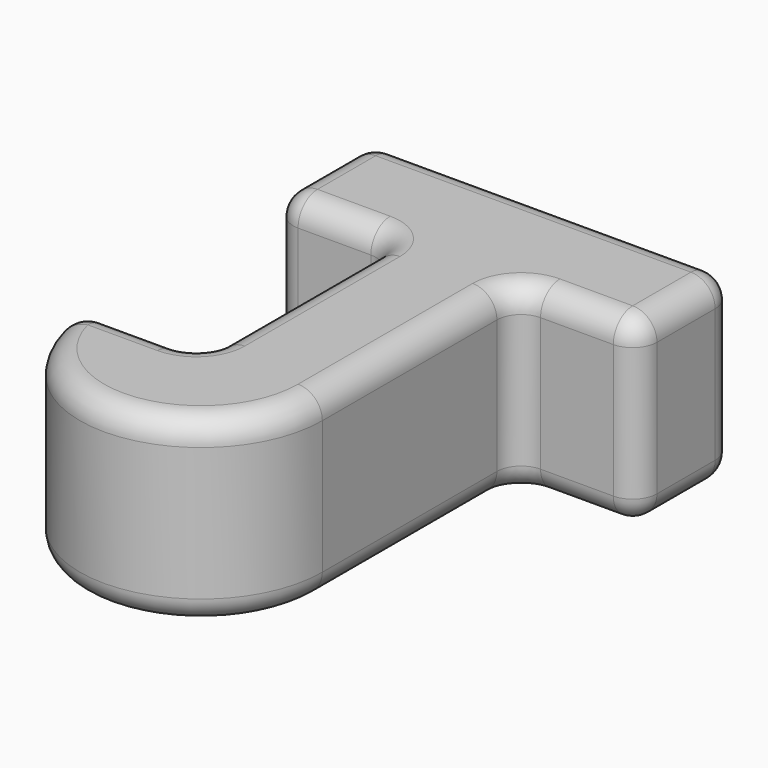
from build123d import *

# Parameters (mm, degrees)
F1_DEPTH = 15
F2_R     = 2


with BuildPart() as f1:
    # F0 (on Top) → F1 (new body)
    with BuildSketch(Plane.XY):
        with BuildLine():
            Line((0, 49.473686), (-30, 49.473686))
            Line((-30, 49.473686), (-30, 39.473686))
            Line((-30, 39.473686), (-20, 39.473686))
            Line((-20, 39.473686), (-20, 19.473686))
            Line((-20, 19.473686), (-30, 19.473686))
            ThreePointArc((-30, 19.473686), (-20, 9.473686), (-10, 19.473686))
            Line((-10, 19.473686), (-10, 39.473686))
            Line((-10, 39.473686), (0, 39.473686))
            Line((0, 39.473686), (0, 49.473686))
        make_face()
    extrude(amount=F1_DEPTH)

    # F2
    f2_edges = [f1.edges().sort_by_distance(p)[0] for p in [
        (-25, 39.473686, 15),
        (-30, 44.473686, 15),
        (-15, 49.473686, 15),
        (0, 44.473686, 15),
        (-5, 39.473686, 15),
        (-10, 29.473686, 15),
        (-20, 9.473686, 15),
        (-25, 19.473686, 15),
        (-20, 29.473686, 15),
        (-10, 39.473686, 7.5),
        (0, 39.473686, 7.5),
        (0, 49.473686, 7.5),
        (-30, 39.473686, 7.5),
        (-30, 49.473686, 7.5),
        (-30, 19.473686, 7.5),
        (-20, 19.473686, 7.5),
        (-25, 19.473686, 0),
        (-25, 39.473686, 0),
        (-15, 49.473686, 0),
        (-30, 44.473686, 0),
        (-20, 9.473686, 0),
        (-20, 29.473686, 0),
        (-10, 29.473686, 0),
        (-5, 39.473686, 0),
        (0, 44.473686, 0),
        (-20, 39.473686, 7.5),
    ]]
    fillet(f2_edges, radius=F2_R)


solid = f1.part
